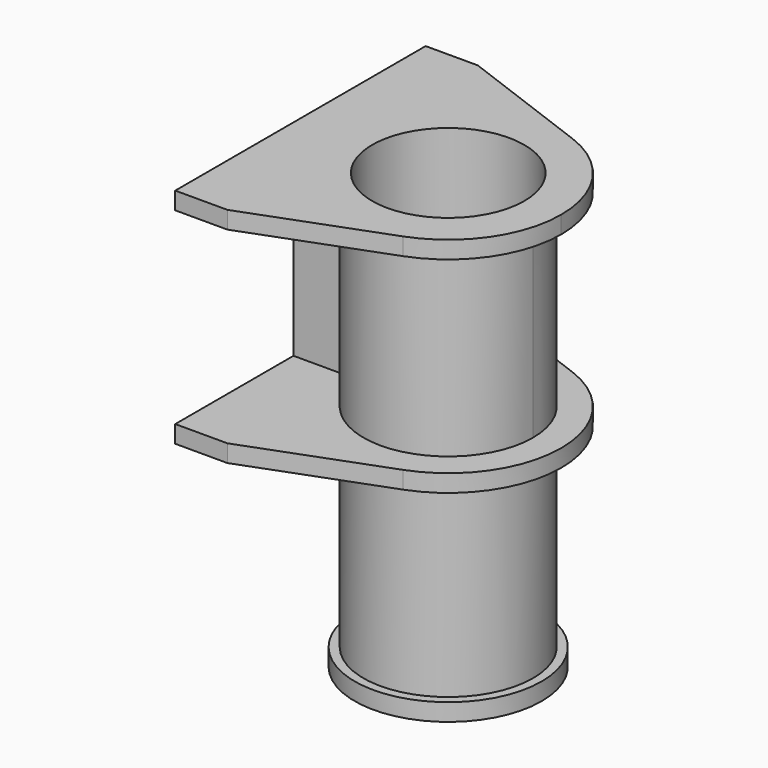
from build123d import *

# Parameters (mm, degrees)
F0_R           = 123.825
F1_DEPTH       = 25.4
F3_R           = 123.825
F4_DEPTH       = 25.4
F5_R           = 123.825
F5_R_2         = 111.125
F6_DEPTH       = 609.6
F7_R           = 136.525
F8_DEPTH       = 25.4
F9_W           = 25.4
F9_H           = 274.828
F11_W          = 82.042
F11_H          = 10.16
F12_DEPTH      = 228.601
F12_DEPTH_BACK = 228.601


with BuildPart() as f1:
    # F0 (on Top) → F1 (new body)
    with BuildSketch(Plane.XY):
        with BuildLine():
            ThreePointArc((151.5545215542, -154.6173465054), (229.3385530798, -94.074537579), (258.7625, 0))
            ThreePointArc((258.7625, 0), (229.3385530798, 94.074537579), (151.5545215542, 154.6173465054))
            Line((151.5545215542, 154.6173465054), (-46.0375, 228.6))
            Line((-46.0375, 228.6), (-122.2375, 228.6))
            Line((-122.2375, 228.6), (-122.2375, 0))
            Line((-122.2375, 0), (-122.2375, -228.6))
            Line((-122.2375, -228.6), (-46.0375, -228.6))
            Line((-46.0375, -228.6), (151.5545215542, -154.6173465054))
        make_face()
        with Locations((93.6625, 0)):
            Circle(F0_R, mode=Mode.SUBTRACT)
    extrude(amount=-F1_DEPTH)



with BuildPart() as f4:
    # F3 (on offset) → F4 (new body)
    with BuildSketch(Plane.XY.offset(-325.628)):
        with BuildLine():
            Line((-46.0375, -228.6), (151.5545215542, -154.6173465054))
            ThreePointArc((151.5545215542, -154.6173465054), (258.7625, 0), (151.5545215542, 154.6173465054))
            Line((151.5545215542, 154.6173465054), (-46.0375, 228.6))
            Line((-46.0375, 228.6), (-122.2375, 228.6))
            Line((-122.2375, 228.6), (-122.2375, -228.6))
            Line((-122.2375, -228.6), (-46.0375, -228.6))
        make_face()
        with Locations((93.6625, 0)):
            Circle(F3_R, mode=Mode.SUBTRACT)
    extrude(amount=F4_DEPTH)


with BuildPart() as f1_1:
    add(f1.part)

    add(f4.part)  # F6 merges F4
    # F5 (on face) → F6 (join)
    with BuildSketch(Plane.XY):
        with Locations((93.6625, 0)):
            Circle(F5_R)
        with Locations((93.6625, 0)):
            Circle(F5_R_2, mode=Mode.SUBTRACT)
    extrude(amount=-F6_DEPTH)

    # F7 (on face) → F8 (join)
    with BuildSketch(Plane(origin=(0, 0, -609.6), x_dir=(1, 0, 0), z_dir=(0, 0, -1))):
        with Locations((93.6625, 0)):
            Circle(F7_R)
    extrude(amount=F8_DEPTH)

    # F9 (on face) → F10 (join, up to the next surface of F1)
    with BuildSketch(Plane(origin=(-122.2375, 0, 0), x_dir=(0, -1, 0), z_dir=(-1, 0, 0))):
        with Locations((0, -162.814)):
            Rectangle(F9_W, F9_H)
    extrude(until=Until.NEXT, dir=(1, 0, 0))

    # F11 (on Front) → F12 (cut, two sides)
    with BuildSketch(Plane.XZ) as f12_sk:
        with Locations((-81.2165, -30.48)):
            Rectangle(F11_W, F11_H)
    extrude(amount=-F12_DEPTH, mode=Mode.SUBTRACT)
    extrude(f12_sk.sketch, amount=F12_DEPTH_BACK, mode=Mode.SUBTRACT)


solid = f1_1.part
